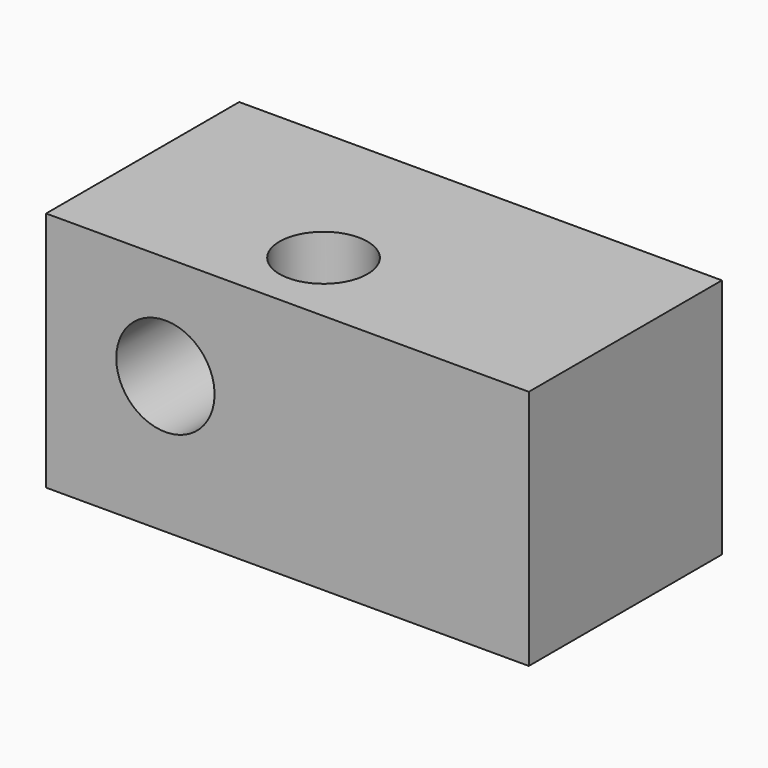
from build123d import *

# Parameters (mm, degrees)
F0_W     = 100
F0_H     = 50
F1_DEPTH = 50
F2_R     = 9.118909
F3_DEPTH = 50
F4_R     = 10.179687
F5_DEPTH = 50


with BuildPart() as f1:
    # F0 (on Top) → F1 (new body)
    with BuildSketch(Plane.XY):
        with Locations((-2.810752, -6.296756)):
            Rectangle(F0_W, F0_H)
    extrude(amount=F1_DEPTH)

    # F2 (on face) → F3 (cut, through all)
    with BuildSketch(Plane.XY.offset(50)):
        with Locations((-8.071532, -15.383557)):
            Circle(F2_R)
    extrude(amount=-F3_DEPTH, mode=Mode.SUBTRACT)

    # F4 (on face) → F5 (cut, through all)
    with BuildSketch(Plane(origin=(0, 18.703244, 0), x_dir=(-1, 0, 0), z_dir=(0, 1, 0))):
        with Locations((28.091645, 28.360171)):
            Circle(F4_R)
    extrude(amount=-F5_DEPTH, mode=Mode.SUBTRACT)


solid = f1.part
